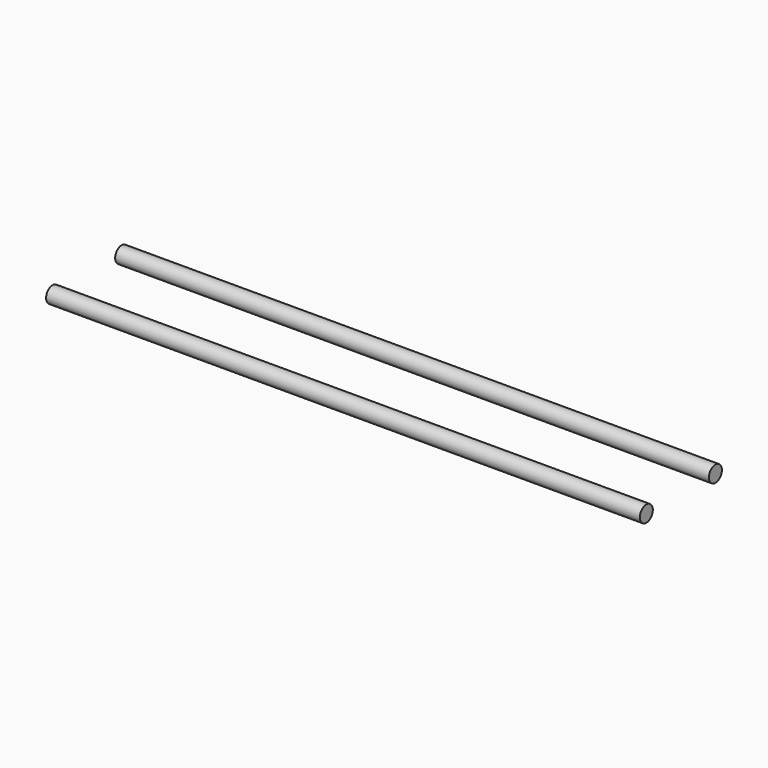
from build123d import *

# Parameters (mm, degrees)
CYLINDER048_R     = 3
CYLINDER048_DEPTH = 220
CYLINDER047_R     = 3
CYLINDER047_DEPTH = 220


with BuildPart() as column004:
    # Cylinder048 → Cylinder048 (new body)
    with BuildSketch(Plane(origin=(-133, 16, -8), x_dir=(0, 0, -1), z_dir=(1, 0, 0))):
        Circle(CYLINDER048_R)
    extrude(amount=CYLINDER048_DEPTH)


with BuildPart() as obj1:
    # Cylinder047 → Cylinder047 (new body)
    with BuildSketch(Plane(origin=(-133, -16, -8), x_dir=(0, 0, -1), z_dir=(1, 0, 0))):
        Circle(CYLINDER047_R)
    extrude(amount=CYLINDER047_DEPTH)

    # Fusion001002012029: union Column004
    add(column004.part)


solid = obj1.part
